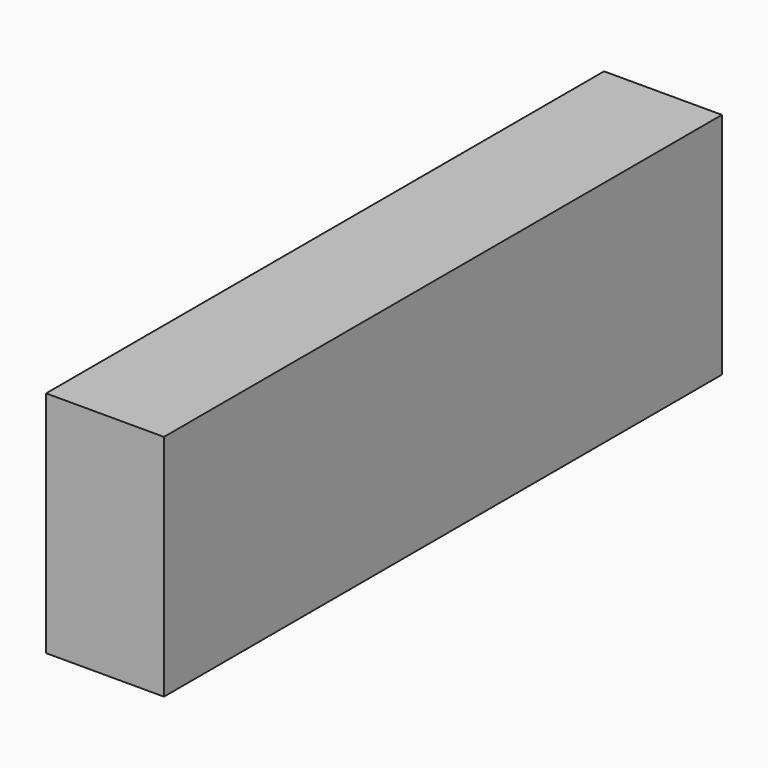
from build123d import *

# Parameters (mm, degrees)
F1_W     = 29.58
F1_H     = 9.7
F2_DEPTH = 5


with BuildPart() as f2:
    # F1 (on offset) → F2 (new body)
    with BuildSketch(Plane.YZ.offset(-87.5)):
        with Locations((-15.69, 1.15)):
            Rectangle(F1_W, F1_H)
    extrude(amount=F2_DEPTH)


solid = f2.part
